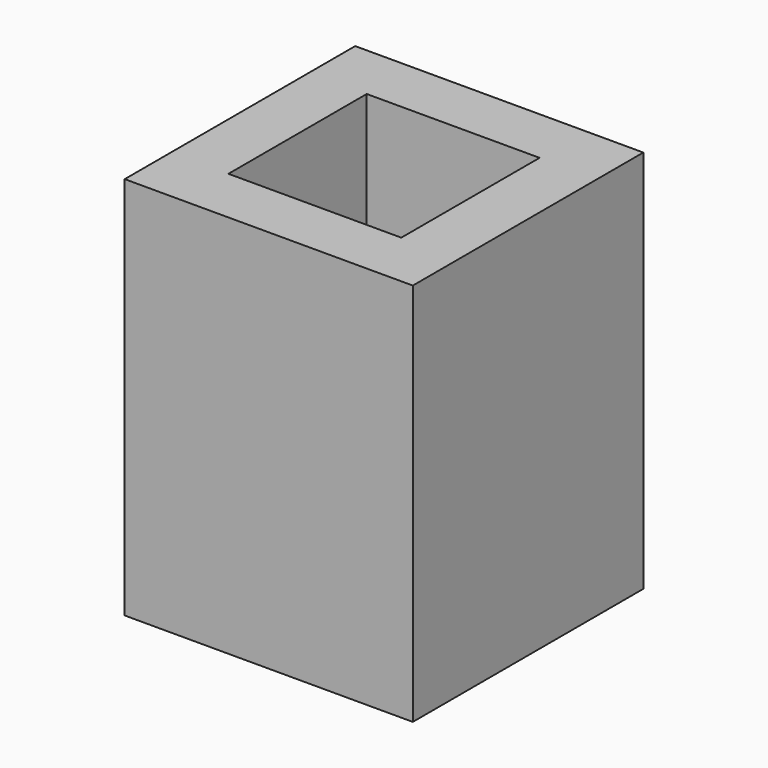
from build123d import *

# Parameters (mm, degrees)
CYLINDER024_R          = 1.2
CYLINDER024_DEPTH      = 10
BOX029_W               = 4.5
BOX029_H               = 4.5
BOX029_DEPTH           = 10
BOX028_W               = 7.5
BOX028_H               = 7.5
BOX028_DEPTH           = 10
CUT037_PLACEMENT_ANGLE = 180


with BuildPart() as cylinder024:
    # Cylinder024 → Cylinder024 (new body)
    with BuildSketch(Plane(origin=(7.5, 16.5, 105), x_dir=(1, 0, 0), z_dir=(0, 0, 1))):
        Circle(CYLINDER024_R)
    extrude(amount=CYLINDER024_DEPTH)


with BuildPart() as cube029:
    # Box029 → Box029 (new body)
    with BuildSketch(Plane(origin=(5.25, 14.25, 98.5), x_dir=(1, 0, 0), z_dir=(0, 0, 1))):
        with Locations((2.25, 2.25)):
            Rectangle(BOX029_W, BOX029_H)
    extrude(amount=BOX029_DEPTH)


with BuildPart() as cut037:
    # Box028 → Box028 (new body)
    with BuildSketch(Plane(origin=(3.75, 12.75, 100), x_dir=(1, 0, 0), z_dir=(0, 0, 1))):
        with Locations((3.75, 3.75)):
            Rectangle(BOX028_W, BOX028_H)
    extrude(amount=BOX028_DEPTH)

    # Cut038: cut Cube029
    add(cube029.part, mode=Mode.SUBTRACT)

    # Cut037: cut Cylinder024
    add(cylinder024.part, mode=Mode.SUBTRACT)


with BuildPart() as cut037_1:
    # Cut037 placement: moved
    add(cut037.part.moved(Location((0, 0, 100))).rotate(Axis((0, 0, 100), (1, 0, 0)), CUT037_PLACEMENT_ANGLE))


solid = cut037_1.part
